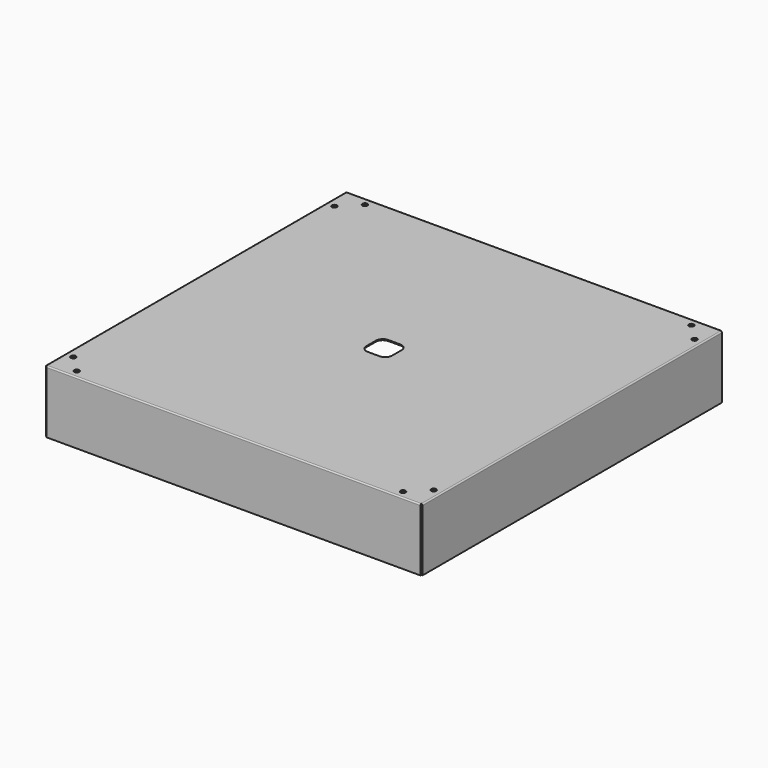
from build123d import *

# Parameters (mm, degrees)
F0_W      = 600
F0_H      = 600
F1_DEPTH  = 100
F3_R      = 2
F4_T      = -1.6
F6_DEPTH  = 100.001
F8_DEPTH  = 100.001
F9_R      = 4
F10_DEPTH = 100.001


with BuildPart() as f1:
    # F0 (on Top) → F1 (new body)
    with BuildSketch(Plane.XY):
        Rectangle(F0_W, F0_H)
        Rectangle(F0_W, F0_H)
    extrude(amount=F1_DEPTH)

    # F3
    f3_edges = [f1.edges().sort_by_distance(p)[0] for p in [
        (0, -300, 100),
        (-300, -300, 50),
        (-300, 0, 100),
        (300, -300, 50),
        (-300, 300, 50),
        (300, 0, 100),
        (0, 300, 100),
        (300, 300, 50),
    ]]
    fillet(f3_edges, radius=F3_R)

    # F4
    f4_openings = [f1.faces().sort_by_distance(p)[0] for p in [
        (0, 0, 0),
    ]]
    offset(amount=F4_T, openings=f4_openings)

    # F5 (on face) → F6 (cut, through all)
    with BuildSketch(Plane.XY.offset(100)):
        with BuildLine():
            Line((298, 300), (298, 298))
            Line((298, 298), (300, 298))
            ThreePointArc((300, 298), (299.414214, 299.414214), (298, 300))
        make_face()
        with BuildLine():
            Line((298, -298), (298, -300))
            ThreePointArc((298, -300), (299.414214, -299.414214), (300, -298))
            Line((300, -298), (298, -298))
        make_face()
        with BuildLine():
            Line((-300, 298), (-298, 298))
            Line((-298, 298), (-298, 300))
            ThreePointArc((-298, 300), (-299.414214, 299.414214), (-300, 298))
        make_face()
        with BuildLine():
            ThreePointArc((-300, -298), (-299.414214, -299.414214), (-298, -300))
            Line((-298, -300), (-298, -298))
            Line((-298, -298), (-300, -298))
        make_face()
    extrude(amount=-F6_DEPTH, mode=Mode.SUBTRACT)

    # F7 (on face) → F8 (cut, through all)
    with BuildSketch(Plane.XY.offset(100)):
        with BuildLine():
            ThreePointArc((-20.5, -9.5), (-17.278175, -17.278175), (-9.5, -20.5))
            Line((-9.5, -20.5), (9.5, -20.5))
            ThreePointArc((9.5, -20.5), (17.278175, -17.278175), (20.5, -9.5))
            Line((20.5, -9.5), (20.5, 9.5))
            ThreePointArc((20.5, 9.5), (17.278175, 17.278175), (9.5, 20.5))
            Line((9.5, 20.5), (-9.5, 20.5))
            ThreePointArc((-9.5, 20.5), (-17.278175, 17.278175), (-20.5, 9.5))
            Line((-20.5, 9.5), (-20.5, -9.5))
        make_face()
    extrude(amount=-F8_DEPTH, mode=Mode.SUBTRACT)

    # F9 (on face) → F10 (cut, through all)
    with BuildSketch(Plane.XY.offset(100)):
        with Locations((260, 287)):
            Circle(F9_R)
        with Locations((-260, 287)):
            Circle(F9_R)
        with Locations((-287, -260)):
            Circle(F9_R)
        with Locations((-287, 260)):
            Circle(F9_R)
        with Locations((260, -287)):
            Circle(F9_R)
        with Locations((-260, -287)):
            Circle(F9_R)
        with Locations((287, 260)):
            Circle(F9_R)
        with Locations((287, -260)):
            Circle(F9_R)
    extrude(amount=-F10_DEPTH, mode=Mode.SUBTRACT)


solid = f1.part
